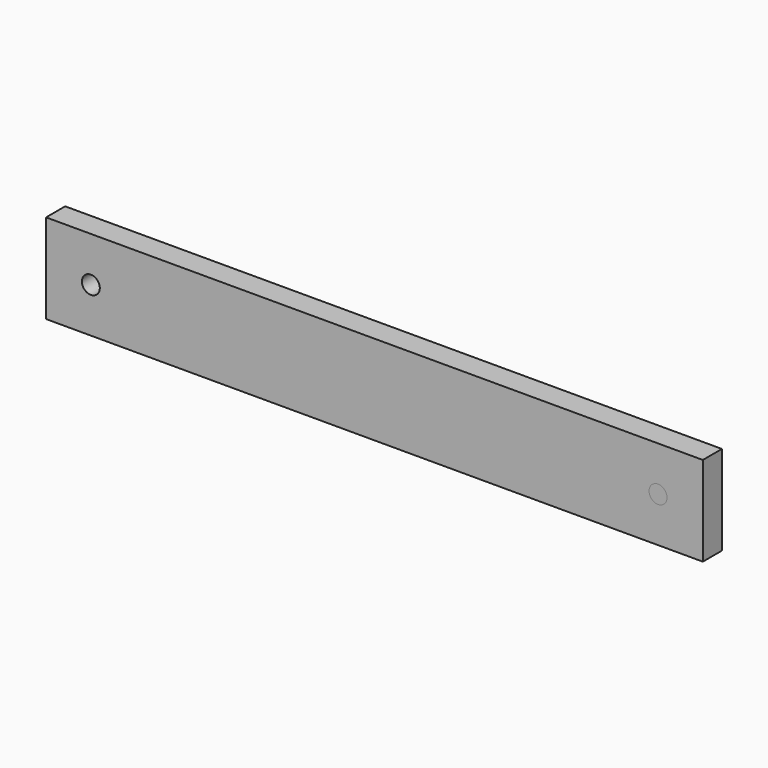
from build123d import *

# Parameters (mm, degrees)
F0_W     = 110
F0_H     = 15
F0_R     = 1.5
F1_DEPTH = 4
F2_R     = 1.5
F3_DEPTH = 8


with BuildPart() as f1:
    # F0 (on Front) → F1 (new body)
    with BuildSketch(Plane.XZ):
        with Locations((55, 7.5)):
            Rectangle(F0_W, F0_H)
        with Locations((7.5, 7.5)):
            Circle(F0_R, mode=Mode.SUBTRACT)
        with Locations((102.5, 7.5)):
            Circle(F0_R, mode=Mode.SUBTRACT)
    extrude(amount=F1_DEPTH)


with BuildPart() as f3:
    # F2 (on face) → F3 (new body)
    with BuildSketch(Plane.XZ.offset(4)):
        with Locations((102.5, 7.5)):
            Circle(F2_R)
    extrude(amount=-F3_DEPTH)


solid = Compound([f1.part, f3.part])
